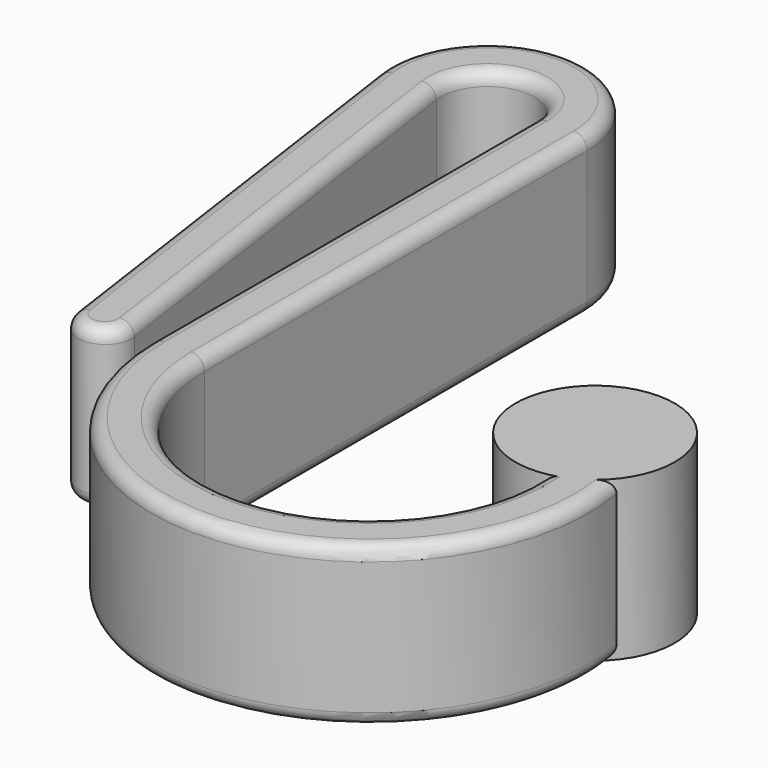
from build123d import *

# Parameters (mm, degrees)
PAD_DEPTH   = 12
FILLET_R    = 1
FILLET001_R = 1


with BuildPart() as part:
    # Sketch → Pad (new body)
    with BuildSketch(Plane.XY):
        with BuildLine():
            Line((0, 0), (0, -36.037343))
            ThreePointArc((0, -36.037343), (17.965583, -52.431253), (32.6509, -33.044043))
            ThreePointArc((32.6509, -33.044043), (25.026843, -24.041822), (28.896206, -35.18607))
            ThreePointArc((4, -36.037343), (16.888542, -48.492721), (28.896206, -35.18607))
            Line((4, 0), (4, -36.037343))
            ThreePointArc((4, 0), (-4.033273, 7.481017), (-10.924165, -1.063846))
            Line((-5.959553, -35.709951), (-10.924165, -1.063846))
            ThreePointArc((-5.959553, -35.709951), (-3.696085, -37.406036), (-2, -35.142567))
            Line((-6.964611, -0.496461), (-2, -35.142567))
            ThreePointArc((0, 0), (-3.74886, 3.491141), (-6.964611, -0.496461))
        make_face()
    extrude(amount=PAD_DEPTH)

    # Fillet
    fillet_edges = [part.edges().sort_by_distance(p)[0] for p in [
        (4, -18.018672, 0),
    ]]
    fillet(fillet_edges, radius=FILLET_R)

    # Fillet001
    fillet001_edges = [part.edges().sort_by_distance(p)[0] for p in [
        (4, -18.018672, 12),
    ]]
    fillet(fillet001_edges, radius=FILLET001_R)


solid = part.part
